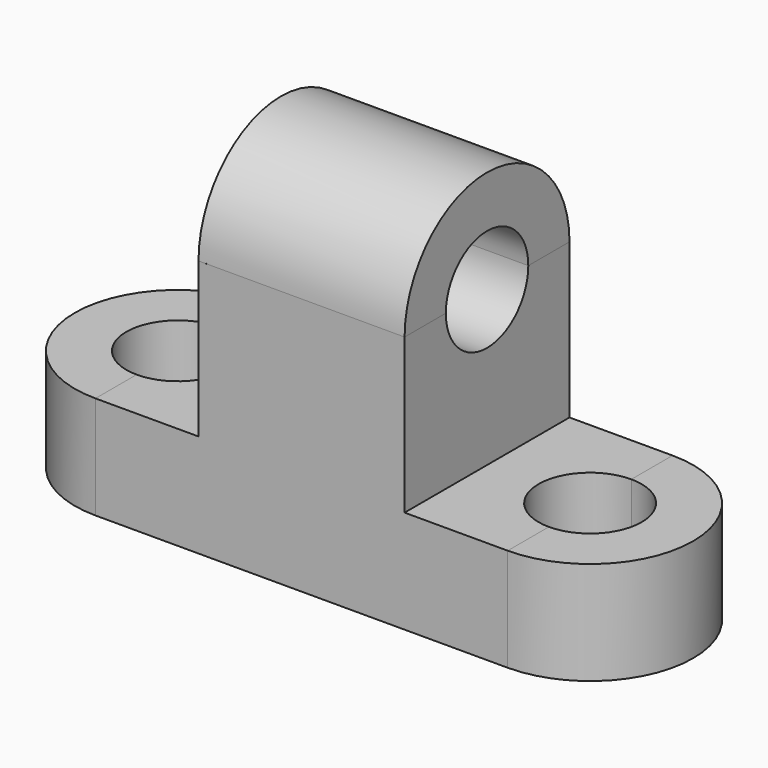
from build123d import *

# Parameters (mm, degrees)
F1_DEPTH  = 25.4
F3_DEPTH  = 25.4
F5_DEPTH  = 25.4
F7_DEPTH  = 25.4
F9_DEPTH  = 12.7
F11_DEPTH = 12.7
F13_DEPTH = 12.7
F15_DEPTH = 12.7
F17_DEPTH = 12.7
F19_DEPTH = 12.7


with BuildPart() as f1:
    # F0 (on Front) → F1 (new body)
    with BuildSketch(Plane.XZ):
        Polygon((-63.8223838828, 30.0135200279), (-76.5223838828, 30.0135200279), (-76.5223838828, 17.3135200279), (-25.7223838828, 17.3135200279), (-25.7223838828, 30.0135200279), (-38.4223838828, 30.0135200279), (-38.4223838828, 49.0635200279), (-63.8223838828, 49.0635200279), align=None)
    extrude(amount=F1_DEPTH)

    # F6 (on face) → F7 (cut)
    with BuildSketch(Plane.YZ.offset(-38.4223838828)):
        with BuildLine():
            ThreePointArc((-19.05, 49.0635200279), (-12.7, 42.7135200279), (-6.35, 49.0635200279))
            Line((-6.35, 49.0635200279), (-19.05, 49.0635200279))
        make_face()
    extrude(amount=-F7_DEPTH, mode=Mode.SUBTRACT)

    # F14 (on face) → F15 (cut)
    with BuildSketch(Plane.XY.offset(30.0135200279)):
        with BuildLine():
            Line((-25.7223838828, -19.05), (-25.7223838828, -6.35))
            ThreePointArc((-25.7223838828, -6.35), (-32.0723838828, -12.7), (-25.7223838828, -19.05))
        make_face()
    extrude(amount=-F15_DEPTH, mode=Mode.SUBTRACT)

    # F18 (on face) → F19 (cut)
    with BuildSketch(Plane.XY.offset(30.0135200279)):
        with BuildLine():
            ThreePointArc((-76.5223838828, -19.05), (-72.0322558223, -17.1901280605), (-70.1723838828, -12.7))
            ThreePointArc((-70.1723838828, -12.7), (-72.0322558223, -8.2098719395), (-76.5223838828, -6.35))
            Line((-76.5223838828, -6.35), (-76.5223838828, -19.05))
        make_face()
    extrude(amount=-F19_DEPTH, mode=Mode.SUBTRACT)


with BuildPart() as f3:
    # F2 (on face) → F3 (new body)
    with BuildSketch(Plane(origin=(-63.8223838828, 0, 0), x_dir=(0, -1, 0), z_dir=(-1, 0, 0))):
        with BuildLine():
            Line((0, 49.0635200279), (25.4, 49.0635200279))
            ThreePointArc((25.4, 49.0635200279), (12.7, 61.7635200279), (0, 49.0635200279))
        make_face()
    extrude(amount=-F3_DEPTH)

    # F4 (on face) → F5 (cut)
    with BuildSketch(Plane.YZ.offset(-38.4223838828)):
        with BuildLine():
            Line((-19.05, 49.0635200279), (-6.35, 49.0635200279))
            ThreePointArc((-6.35, 49.0635200279), (-12.7, 55.4135200279), (-19.05, 49.0635200279))
        make_face()
    extrude(amount=-F5_DEPTH, mode=Mode.SUBTRACT)


with BuildPart() as f9:
    # F8 (on face) → F9 (new body)
    with BuildSketch(Plane.XY.offset(30.0135200279)):
        with BuildLine():
            Line((-25.7223838828, 0), (-25.7223838828, -25.4))
            ThreePointArc((-25.7223838828, -25.4), (-13.0223838828, -12.7), (-25.7223838828, 0))
        make_face()
    extrude(amount=-F9_DEPTH)

    # F12 (on face) → F13 (cut)
    with BuildSketch(Plane.XY.offset(30.0135200279)):
        with BuildLine():
            ThreePointArc((-25.7223838828, -19.05), (-21.2322558223, -17.1901280605), (-19.3723838828, -12.7))
            ThreePointArc((-19.3723838828, -12.7), (-21.2322558223, -8.2098719395), (-25.7223838828, -6.35))
            Line((-25.7223838828, -6.35), (-25.7223838828, -19.05))
        make_face()
    extrude(amount=-F13_DEPTH, mode=Mode.SUBTRACT)


with BuildPart() as f11:
    # F10 (on face) → F11 (new body)
    with BuildSketch(Plane.XY.offset(30.0135200279)):
        with BuildLine():
            Line((-76.5223838828, -25.4), (-76.5223838828, 0))
            ThreePointArc((-76.5223838828, 0), (-89.2223838828, -12.7), (-76.5223838828, -25.4))
        make_face()
    extrude(amount=-F11_DEPTH)

    # F16 (on face) → F17 (cut)
    with BuildSketch(Plane.XY.offset(30.0135200279)):
        with BuildLine():
            Line((-76.5223838828, -19.05), (-76.5223838828, -6.35))
            ThreePointArc((-76.5223838828, -6.35), (-82.8723838828, -12.7), (-76.5223838828, -19.05))
        make_face()
    extrude(amount=-F17_DEPTH, mode=Mode.SUBTRACT)


solid = Compound([f1.part, f3.part, f9.part, f11.part])
